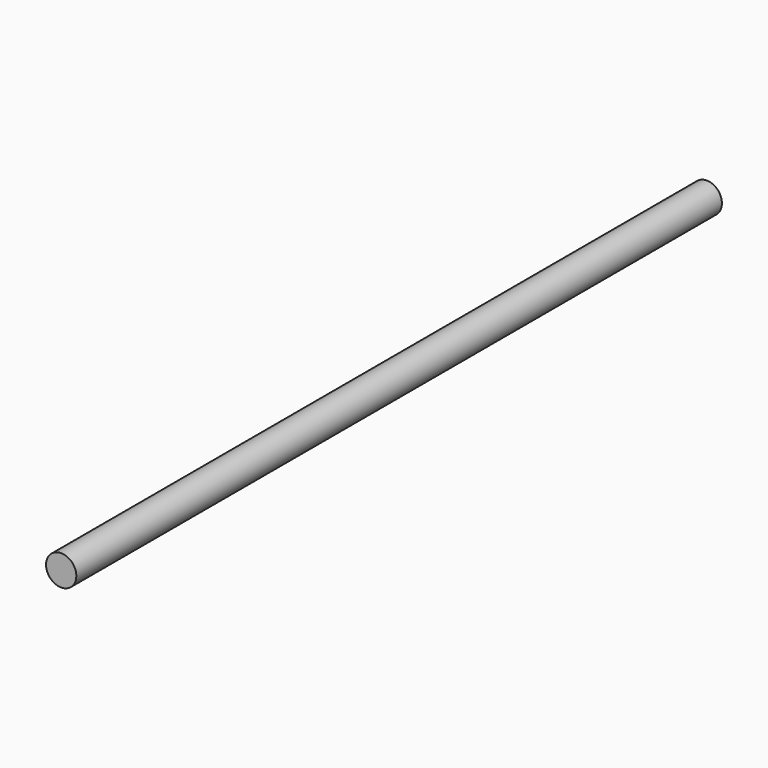
from build123d import *

# Parameters (mm, degrees)
SKETCH_R  = 6
PAD_DEPTH = 160


with BuildPart() as part:
    # Sketch → Pad (new body, symmetric)
    with BuildSketch(Plane.XZ):
        Circle(SKETCH_R)
    extrude(amount=PAD_DEPTH, both=True)


solid = part.part
